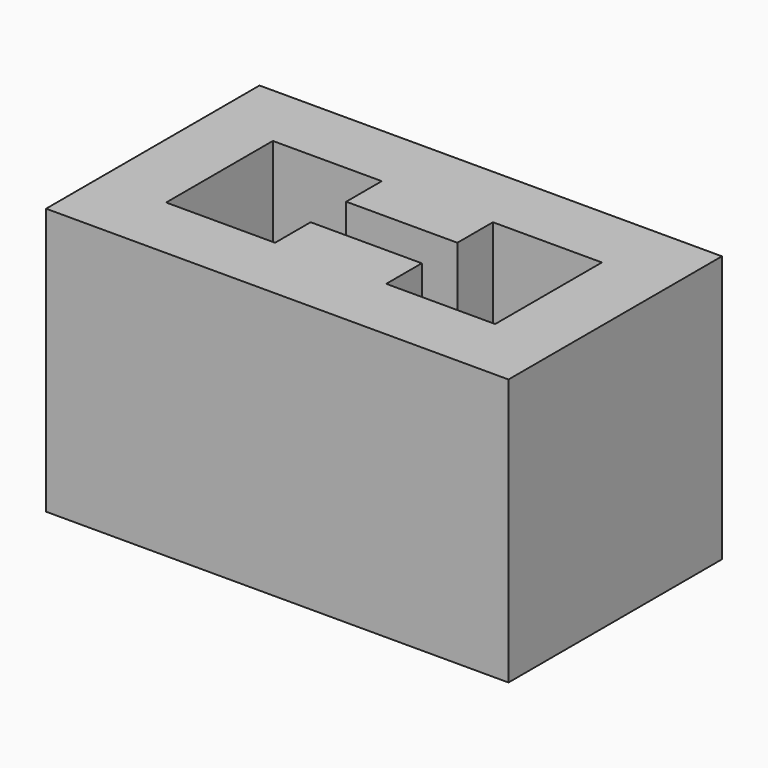
from build123d import *

# Parameters (mm, degrees)
F0_W     = 52
F0_H     = 30
F1_DEPTH = 30


with BuildPart() as f1:
    # F0 (on Top) → F1 (new body)
    with BuildSketch(Plane.XY):
        with Locations((26, 15)):
            Rectangle(F0_W, F0_H)
        Polygon((7.5, 7.5), (7.5, 22.5), (19.75, 22.5), (19.75, 17.5), (32.25, 17.5), (32.25, 22.5), (44.5, 22.5), (44.5, 7.5), (32.25, 7.5), (32.25, 12.5), (19.75, 12.5), (19.75, 7.5), align=None, mode=Mode.SUBTRACT)
    extrude(amount=F1_DEPTH)


solid = f1.part
